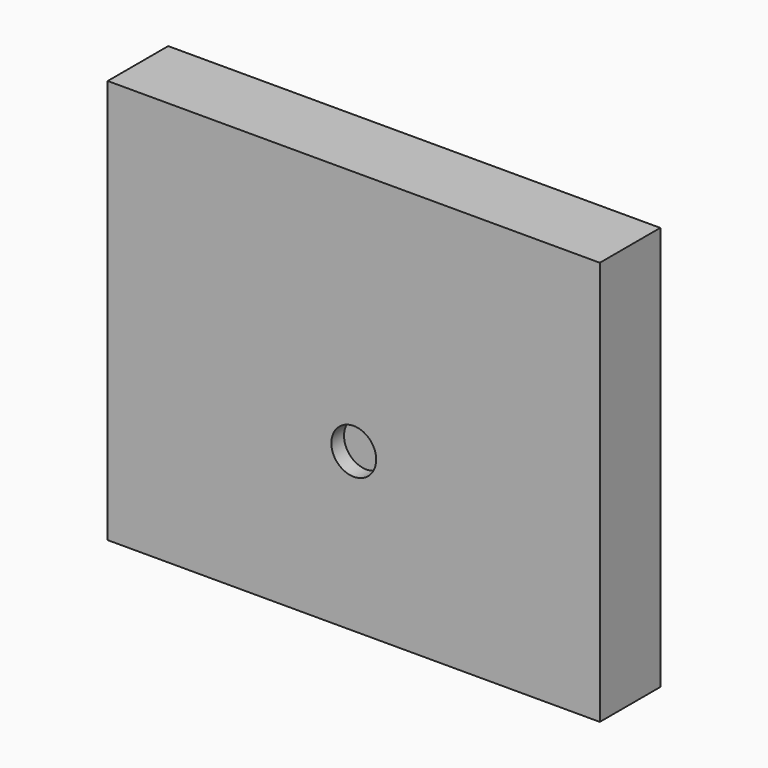
from build123d import *

# Parameters (mm, degrees)
F1_DEPTH = 2.286
F2_DEPTH = 8.636
F3_W     = 67.638885
F3_H     = 6.652117
F4_DEPTH = 57.658
F5_R     = 3.239595
F6_DEPTH = 25.4


with BuildPart() as f1:
    # F0 (on Front) → F1 (new body)
    with BuildSketch(Plane.XZ):
        Polygon((35.56, 35.56), (0, 35.56), (-35.56, 35.56), (-35.56, -22.86), (35.56, -22.86), align=None)
    extrude(amount=F1_DEPTH)

    # F0 (on Front) → F2 (join)
    with BuildSketch(Plane.XZ):
        Polygon((35.56, 35.56), (0, 35.56), (-35.56, 35.56), (-35.56, -22.86), (35.56, -22.86), align=None)
    extrude(amount=-F2_DEPTH)

    # F3 (on face) → F4 (cut)
    with BuildSketch(Plane(origin=(0, 0, -22.86), x_dir=(1, 0, 0), z_dir=(0, 0, -1))):
        with Locations((0.041259, -3.326058)):
            Rectangle(F3_W, F3_H)
    extrude(amount=-F4_DEPTH, mode=Mode.SUBTRACT)

    # F5 (on face) → F6 (cut)
    with BuildSketch(Plane.XZ.offset(2.286)):
        Circle(F5_R)
    extrude(amount=-F6_DEPTH, mode=Mode.SUBTRACT)


solid = f1.part
